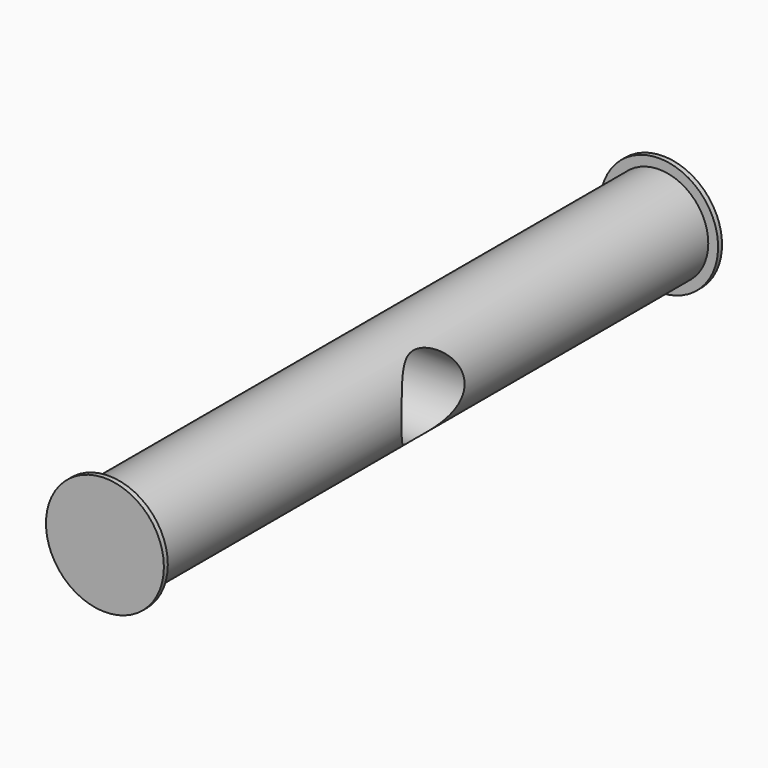
from build123d import *

# Parameters (mm, degrees)
F0_R     = 250
F1_DEPTH = 1775
F2_R     = 300
F2_R_2   = 250
F3_DEPTH = 25
F4_R     = 300
F4_R_2   = 250
F5_DEPTH = 25
F6_R     = 200
F7_DEPTH = 1233


with BuildPart() as f1:
    # F0 (on Front) → F1 (new body, symmetric)
    with BuildSketch(Plane.XZ):
        Circle(F0_R)
    extrude(amount=F1_DEPTH, both=True)

    # F2 (on face) → F3 (join)
    with BuildSketch(Plane.XZ.offset(1775)):
        Circle(F2_R)
        Circle(F2_R_2, mode=Mode.SUBTRACT)
    extrude(amount=-F3_DEPTH)

    # F4 (on face) → F5 (join)
    with BuildSketch(Plane(origin=(0, 1775, 0), x_dir=(-1, 0, 0), z_dir=(0, 1, 0))):
        Circle(F4_R)
        Circle(F4_R_2, mode=Mode.SUBTRACT)
    extrude(amount=-F5_DEPTH)

    # F6 (on Right) → F7 (cut, symmetric)
    with BuildSketch(Plane.YZ):
        Circle(F6_R)
    extrude(amount=F7_DEPTH, both=True, mode=Mode.SUBTRACT)


solid = f1.part
